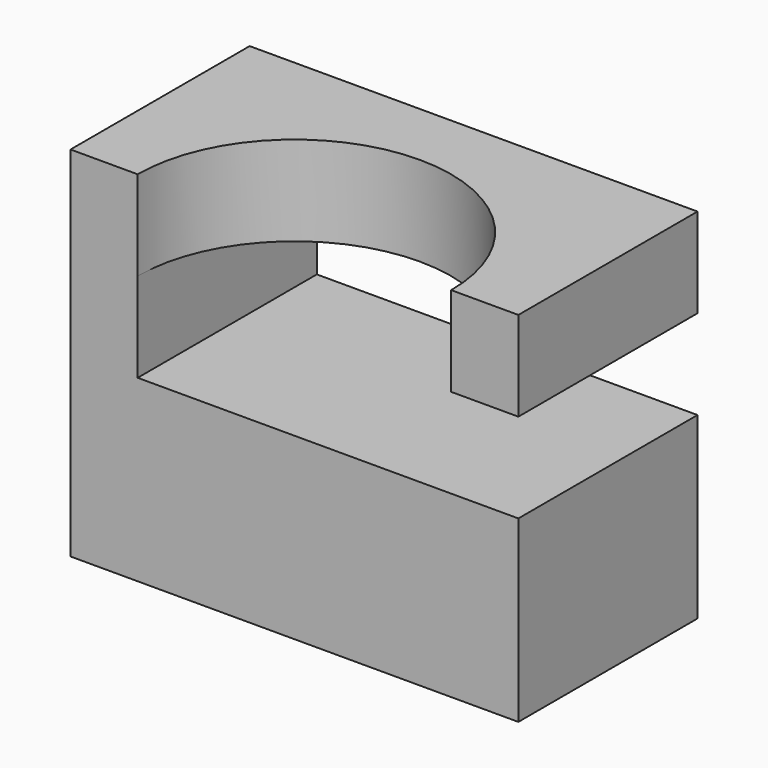
from build123d import *

# Parameters (mm, degrees)
F0_W     = 31.75
F0_H     = 31.75
F1_DEPTH = 25.4
F3_DEPTH = 12.7
F4_W     = 26.9875
F4_H     = 31.75
F5_DEPTH = 6.35
F6_W     = 31.75
F6_H     = 9.525
F7_DEPTH = 25.401
F8_W     = 31.75
F8_H     = 6.35
F9_DEPTH = 25.401


with BuildPart() as f1:
    # F0 (on Top) → F1 (new body)
    with BuildSketch(Plane.XY):
        with Locations((15.875, 15.875)):
            Rectangle(F0_W, F0_H)
    extrude(amount=F1_DEPTH)

    # F2 (on face) → F3 (cut)
    with BuildSketch(Plane.XY.offset(25.4)):
        with BuildLine():
            Line((26.9875, 0), (26.9875, 9.525))
            ThreePointArc((26.9875, 9.525), (15.875, 20.6375), (4.7625, 9.525))
            Line((4.7625, 9.525), (4.7625, 0))
            Line((4.7625, 0), (26.9875, 0))
        make_face()
    extrude(amount=-F3_DEPTH, mode=Mode.SUBTRACT)

    # F4 (on face) → F5 (cut)
    with BuildSketch(Plane.XY.offset(12.7)):
        with Locations((18.25625, 15.875)):
            Rectangle(F4_W, F4_H)
    extrude(amount=F5_DEPTH, mode=Mode.SUBTRACT)

    # F6 (on face) → F7 (cut, through all)
    with BuildSketch(Plane.XY.offset(25.4)):
        with Locations((15.875, 4.7625)):
            Rectangle(F6_W, F6_H)
    extrude(amount=-F7_DEPTH, mode=Mode.SUBTRACT)

    # F8 (on Top) → F9 (cut, through all)
    with BuildSketch(Plane.XY):
        with Locations((15.875, 28.575)):
            Rectangle(F8_W, F8_H)
    extrude(amount=F9_DEPTH, mode=Mode.SUBTRACT)


solid = f1.part
